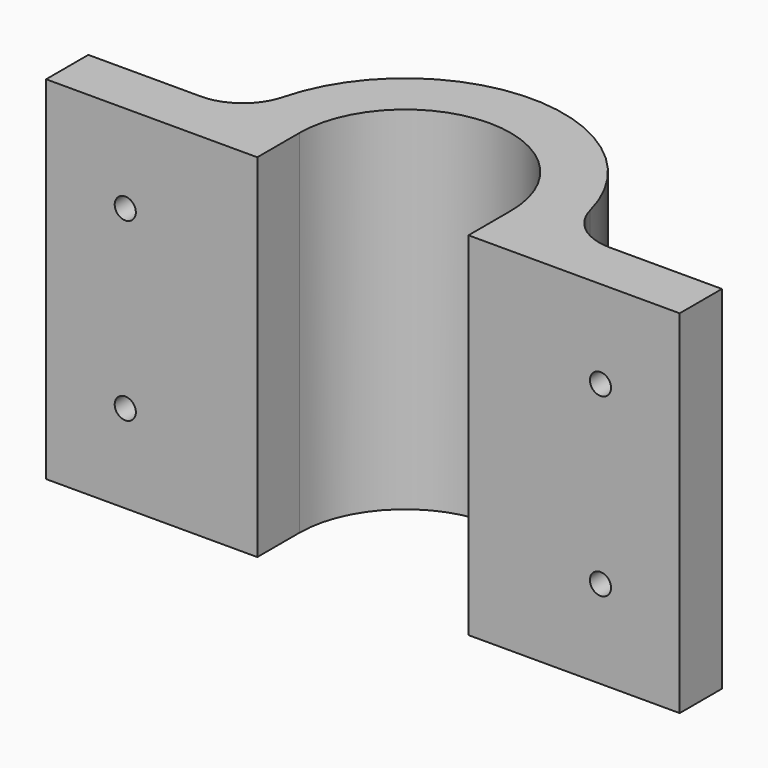
from build123d import *

# Parameters (mm, degrees)
F1_DEPTH = 20
F3_D     = 1.2
F4_R     = 3


with BuildPart() as f1:
    # F0 (on Top) → F1 (new body)
    with BuildSketch(Plane.XY):
        with BuildLine():
            ThreePointArc((-6, 0), (0, 6), (6, 0))
            Line((6, 0), (6, -3))
            Line((6, -3), (18, -3))
            Line((18, -3), (18, 0))
            Line((18, 0), (9, 0))
            ThreePointArc((9, 0), (0, 9), (-9, 0))
            Line((-9, 0), (-18, 0))
            Line((-18, 0), (-18, -3))
            Line((-18, -3), (-6, -3))
            Line((-6, -3), (-6, 0))
        make_face()
    extrude(amount=F1_DEPTH)

    # F3 (through all)
    with Locations(Plane(origin=(0, 0, 0), x_dir=(-1, 0, 0), z_dir=(0, 1, 0))):
        with Locations((-13.5, 15), (-13.5, 5), (13.5, 15), (13.5, 5)):
            Hole(F3_D / 2)

    # F4
    f4_edges = [f1.edges().sort_by_distance(p)[0] for p in [
        (9, 0, 10),
        (-9, 0, 10),
    ]]
    fillet(f4_edges, radius=F4_R)


solid = f1.part
